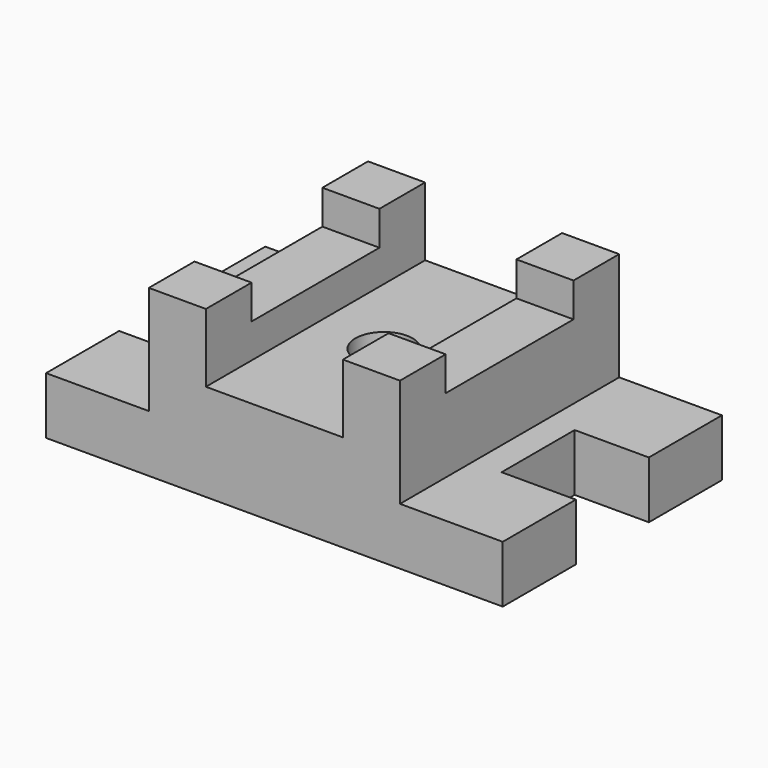
from build123d import *

# Parameters (mm, degrees)
F1_DEPTH = 31.75
F0_W     = 31.75
F0_H     = 88.9
F2_DEPTH = 73.025
F0_H_2   = 31.75
F3_DEPTH = 92.075
F0_R     = 15.875
F4_DEPTH = 53.975


with BuildPart() as f1:
    # F0 (on Top) → F1 (new body)
    with BuildSketch(Plane.XY):
        Polygon((-127, -76.2), (-69.85, -76.2), (-69.85, -44.45), (-69.85, 44.45), (-69.85, 76.2), (-127, 76.2), (-127, 25.4), (-85.725, 25.4), (-85.725, -25.4), (-127, -25.4), align=None)
    extrude(amount=F1_DEPTH)

    # F0 (on Top) → F2 (join)
    with BuildSketch(Plane.XY):
        with Locations((-53.975, 0)):
            Rectangle(F0_W, F0_H)
    extrude(amount=F2_DEPTH)

    # F0 (on Top) → F3 (join)
    with BuildSketch(Plane.XY):
        with Locations((-53.975, 60.325)):
            Rectangle(F0_W, F0_H_2)
        with Locations((-53.975, -60.325)):
            Rectangle(F0_W, F0_H_2)
    extrude(amount=F3_DEPTH)



with BuildPart() as f1b:
    # F0 (on Top) → F1, piece 2 (new body)
    with BuildSketch(Plane.XY):
        Polygon((69.85, -44.45), (69.85, -76.2), (127, -76.2), (127, -25.4), (85.725, -25.4), (85.725, 25.4), (127, 25.4), (127, 76.2), (69.85, 76.2), (69.85, 44.45), align=None)
    extrude(amount=F1_DEPTH)

    # F0 (on Top) → F2, piece 2 (join)
    with BuildSketch(Plane.XY):
        with Locations((53.975, 0)):
            Rectangle(F0_W, F0_H)
    extrude(amount=F2_DEPTH)

    # F0 (on Top) → F3, piece 2 (join)
    with BuildSketch(Plane.XY):
        with Locations((53.975, 60.325)):
            Rectangle(F0_W, F0_H_2)
        with Locations((53.975, -60.325)):
            Rectangle(F0_W, F0_H_2)
    extrude(amount=F3_DEPTH)


with BuildPart() as f1_1:
    add(f1.part)

    add(f1b.part)  # F4 merges F1b
    # F0 (on Top) → F4 (join)
    with BuildSketch(Plane.XY):
        Polygon((-38.1, -44.45), (-38.1, -76.2), (38.1, -76.2), (38.1, -44.45), (38.1, 44.45), (38.1, 76.2), (-38.1, 76.2), (-38.1, 44.45), align=None)
        Circle(F0_R, mode=Mode.SUBTRACT)
    extrude(amount=F4_DEPTH)


solid = f1_1.part
